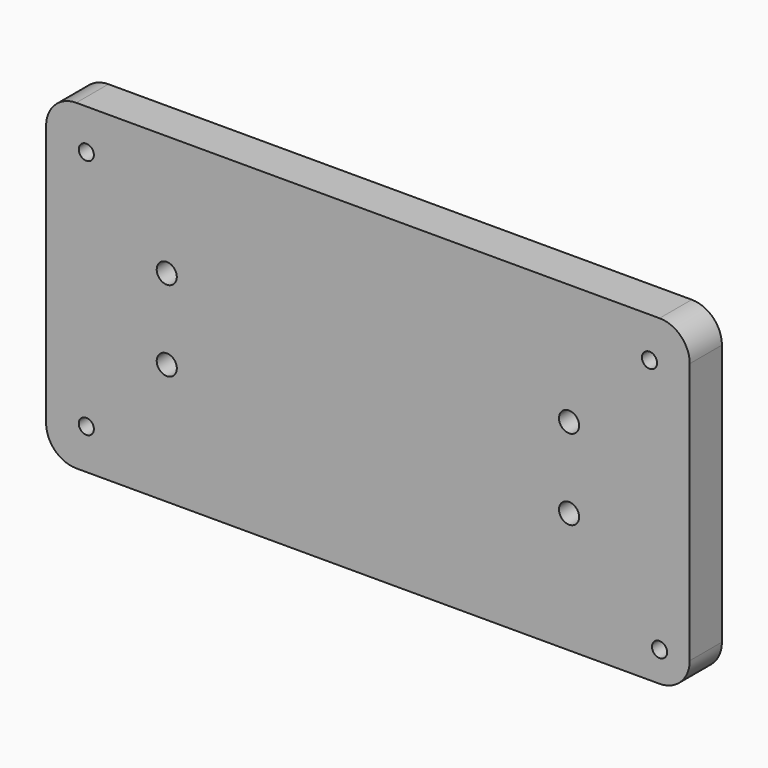
from build123d import *

# Parameters (mm, degrees)
F0_W     = 203.2
F0_H     = 101.6
F1_DEPTH = 12.7
F2_R     = 9.525
F4_D     = 4.7752
F6_D     = 6.35


with BuildPart() as f1:
    # F0 (on Front) → F1 (new body)
    with BuildSketch(Plane.XZ):
        with Locations((8.468162, -18.130052)):
            Rectangle(F0_W, F0_H)
    extrude(amount=F1_DEPTH)

    # F2
    f2_edges = [f1.edges().sort_by_distance(p)[0] for p in [
        (-93.131838, -6.35, 32.669948),
        (-93.131838, -6.35, -68.930052),
        (110.068162, -6.35, -68.930052),
        (110.068162, -6.35, 32.669948),
    ]]
    fillet(f2_edges, radius=F2_R)

    # F4 (through all)
    with Locations(Plane.XZ.offset(12.7)):
        with Locations((-80.431838, 19.969948), (-80.431838, -56.230052), (97.368162, 19.969948), (100.543162, -59.405052)):
            Hole(F4_D / 2)

    # F6 (through all)
    with Locations(Plane.XZ.offset(12.7)):
        with Locations((-55.031838, -5.430052), (-55.031838, -30.830052), (71.968162, -5.430052), (71.968162, -30.830052)):
            Hole(F6_D / 2)


solid = f1.part
